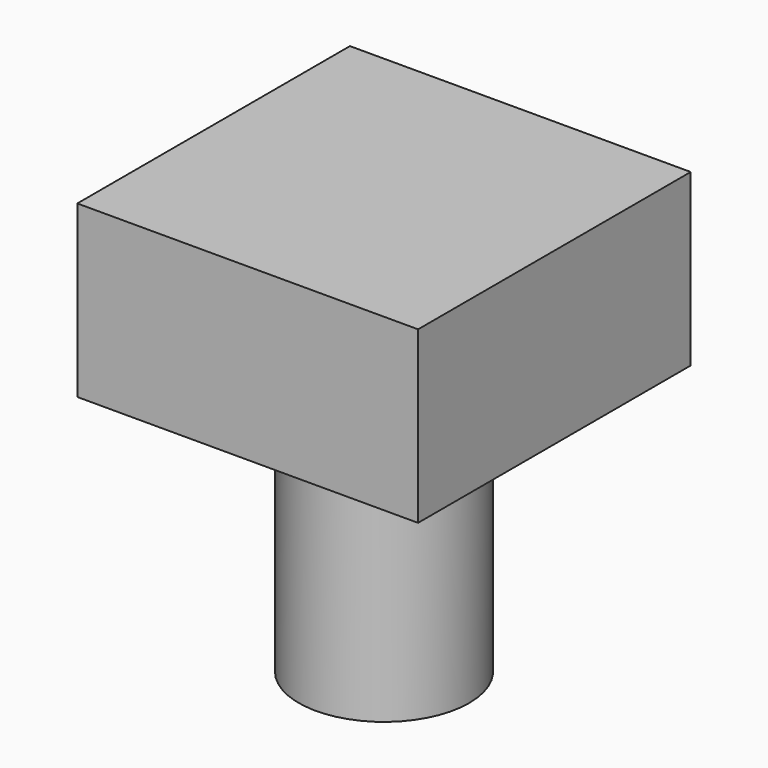
from build123d import *

# Parameters (mm, degrees)
F0_W     = 40
F0_H     = 40
F1_DEPTH = 20
F2_R     = 10
F3_DEPTH = 50


with BuildPart() as f1:
    # F0 (on Top) → F1 (new body)
    with BuildSketch(Plane.XY):
        Rectangle(F0_W, F0_H)
    extrude(amount=F1_DEPTH)

    # F2 (on face) → F3 (join)
    with BuildSketch(Plane.XY.offset(20)):
        Circle(F2_R)
    extrude(amount=-F3_DEPTH)


solid = f1.part
